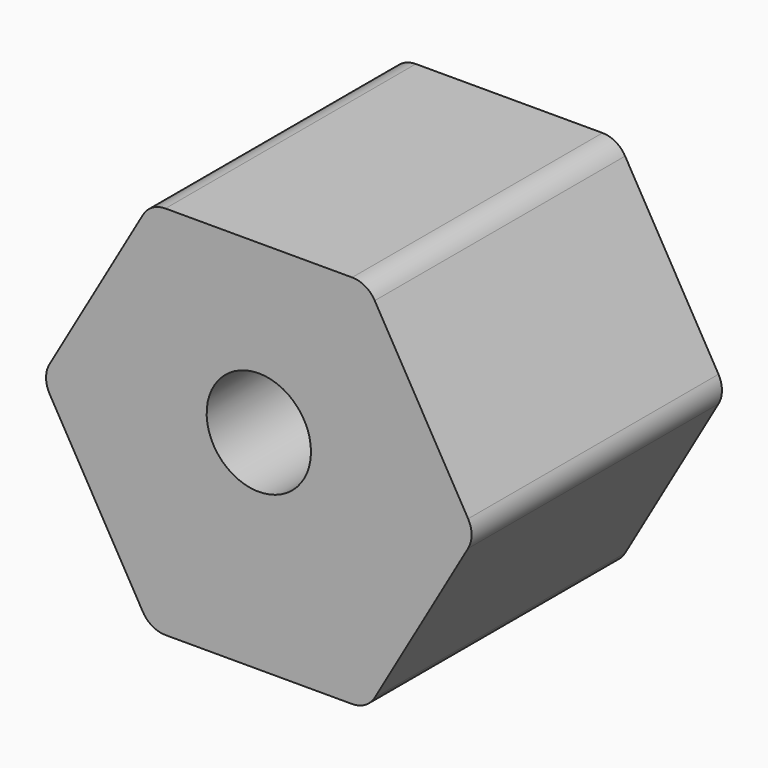
from build123d import *

# Parameters (mm, degrees)
F1_DEPTH = 38.1
F2_R     = 3.175
F4_DEPTH = 38.1


with BuildPart() as f1:
    # F0 (on Front) → F1 (new body)
    with BuildSketch(Plane.XZ):
        Polygon((13.198227, 22.86), (-13.198227, 22.86), (-26.396454, 0), (-13.198227, -22.86), (13.198227, -22.86), (26.396454, 0), align=None)
    extrude(amount=F1_DEPTH)

    # F2
    f2_edges = [f1.edges().sort_by_distance(p)[0] for p in [
        (13.198227, -19.05, 22.86),
        (26.396454, -19.05, 0),
        (13.198227, -19.05, -22.86),
        (-13.198227, -19.05, -22.86),
        (-26.396454, -19.05, 0),
        (-13.198227, -19.05, 22.86),
    ]]
    fillet(f2_edges, radius=F2_R)

    # F3 (on face) → F4 (cut, through all)
    with BuildSketch(Plane.XZ.offset(38.1)):
        with BuildLine():
            ThreePointArc((0, 8.89), (-4.490128, -1.950128), (6.35, 2.54))
            ThreePointArc((6.35, 2.54), (4.490128, 7.030128), (0, 8.89))
        make_face()
    extrude(amount=-F4_DEPTH, mode=Mode.SUBTRACT)


solid = f1.part
